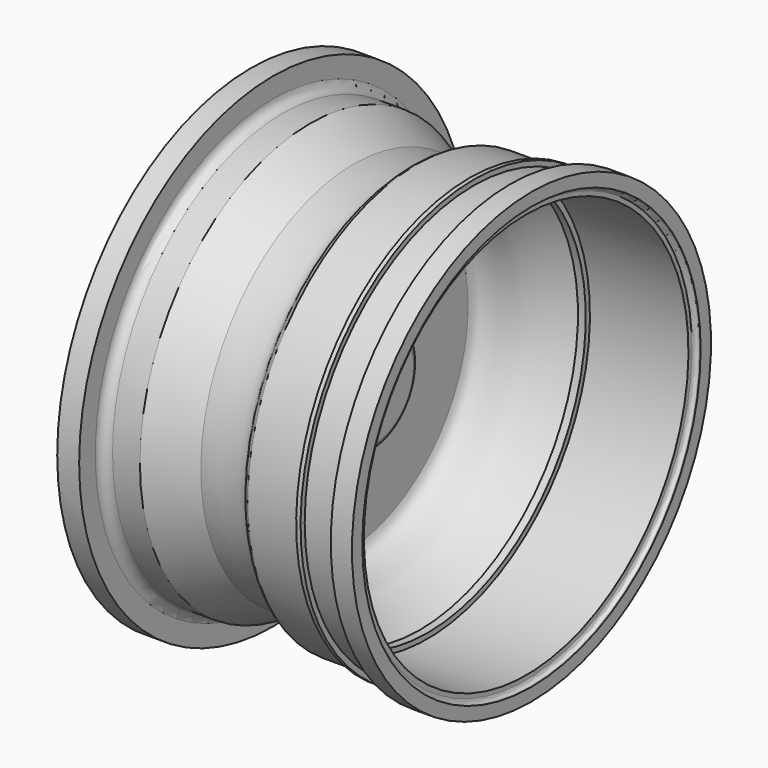
from build123d import *


with BuildPart() as f1:
    # F0 (on Front) → F1 (revolve)
    with BuildSketch(Plane.XZ):
        with BuildLine():
            Line((-51.6850533998, 63.4579509497), (-61.951007694, 63.4579509497))
            Line((-61.951007694, 63.4579509497), (-61.951007694, 59.0694360435))
            Line((-61.951007694, 59.0694360435), (-59.0253314003, 59.0694360435))
            ThreePointArc((-59.0253314003, 59.0694360435), (-57.6461554667, 58.4981626669), (-57.0748820901, 57.1189867333))
            Line((-57.0748820901, 57.1189867333), (-57.0748820901, 44.9286727235))
            ThreePointArc((-57.0748820901, 44.9286727235), (-56.5036087135, 43.5494967898), (-55.1244327798, 42.9782234132))
            Line((-55.1244327798, 42.9782234132), (-35.376124084, 42.9782234132))
            Line((-35.376124084, 42.9782234132), (-24.6486458927, 35.9078384936))
            Line((-24.6486458927, 35.9078384936), (-24.6486458927, 29.0812645108))
            Line((-24.6486458927, 29.0812645108), (-33.4256747738, 29.0812645108))
            ThreePointArc((-33.4256747738, 29.0812645108), (-34.8048507074, 28.5099911341), (-35.376124084, 27.1308152005))
            Line((-35.376124084, 27.1308152005), (-35.376124084, -32.3579199612))
            Line((-35.376124084, -32.3579199612), (-20.2601319179, -32.3579199612))
            ThreePointArc((-20.2601319179, -32.3579199612), (-18.8809559843, -32.9291933378), (-18.3096826077, -34.3083692715))
            Line((-18.3096826077, -34.3083692715), (-18.3096826077, -49.9119721353))
            Line((-18.3096826077, -49.9119721353), (-4.5179171469, -49.9119721353))
            Line((-4.5179171469, -49.9119721353), (-4.5179171469, -26.7503745854))
            add(Edge.make_bspline(
                [(-4.5179171469, -26.7503745854), (-5.0363166266, -25.2067549025), (-6.1818830322, -22.7220642246), (-10.318293926, -25.9828736028), (-11.5091792155, -19.4907937599), (-13.5577082931, -18.626912032), (-14.2935553126, -18.5495040646)],
                knots=[0, 0, 0, 0, 0.2250214536, 0.4294137033, 0.7124217865, 0.8309015785, 0.8309015785, 0.8309015785, 0.8309015785], degree=3))
            ThreePointArc((-14.2935553126, -18.5495040646), (-17.1577250992, -17.0898917868), (-18.3096826077, -14.0887369312))
            Line((-18.3096826077, -14.0887369312), (-18.3096826077, 22.4984940141))
            add(Edge.make_bspline(
                [(-18.3096826077, 22.4984940141), (-17.9444008215, 23.7490986526), (-17.0098070539, 26.9509088743), (-7.5953548757, 30.2034332064), (0.5628995135, 29.8243851848), (11.197115806, 38.7620587704), (16.9984197934, 42.5574737503)],
                knots=[0, 0, 0, 0, 0.163933784, 0.4050287562, 0.6362905825, 1, 1, 1, 1], degree=3))
            Line((16.9984197934, 42.5574737503), (20.655513065, 42.5574737503))
            Line((20.655513065, 42.5574737503), (20.655513065, 44.9955346896))
            Line((20.655513065, 44.9955346896), (66.7497361129, 44.9955346896))
            Line((66.7497361129, 44.9955346896), (66.7497361129, 47.0559877274))
            ThreePointArc((66.7497361129, 47.0559877274), (67.3225766702, 48.43894717), (68.7055361129, 49.0117877274))
            Line((68.7055361129, 49.0117877274), (69.2288248679, 49.0117877274))
            Line((69.2288248679, 49.0117877274), (69.2288248679, 55.0696181733))
            Line((69.2288248679, 55.0696181733), (59.319808419, 55.0696181733))
            Line((59.319808419, 55.0696181733), (59.319808419, 48.9054978666))
            Line((59.319808419, 48.9054978666), (42.1961293183, 48.9054978666))
            Line((42.1961293183, 48.9054978666), (42.1961293183, 51.3514993712))
            Line((42.1961293183, 51.3514993712), (40.1574949433, 51.3514993712))
            Line((40.1574949433, 51.3514993712), (40.1574949433, 48.9054978666))
            Line((40.1574949433, 48.9054978666), (15.5267990878, 48.9054978666))
            add(Edge.make_bspline(
                [(15.5267990878, 48.9054978666), (13.2693612893, 48.048248608), (10.2677989982, 43.3700575435), (7.8097904296, 38.2738272116), (-5.2612738031, 39.2102109938), (-13.8950818321, 39.5649336278)],
                knots=[0, 0, 0, 0, 0.2873673944, 0.514832545, 1, 1, 1, 1], degree=3))
            Line((-13.8950818321, 39.5649336278), (-34.3748065745, 49.5609864593))
            Line((-34.3748065745, 49.5609864593), (-47.1996724317, 49.5609864593))
            ThreePointArc((-47.1996724317, 49.5609864593), (-50.3713157304, 50.8747241286), (-51.6850533998, 54.0463674273))
            Line((-51.6850533998, 54.0463674273), (-51.6850533998, 63.4579509497))
        make_face()
    revolve(axis=Axis((-11.4137998773, 0, -49.9119721353), (1, 0, 0)))


solid = f1.part
